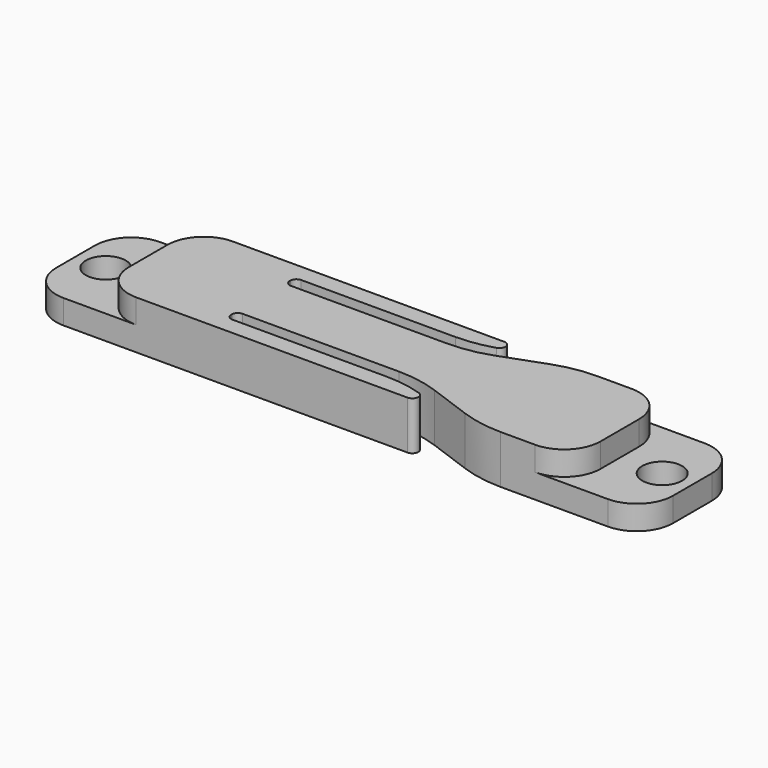
from build123d import *

# Parameters (mm, degrees)
SKETCH_W          = 51
SKETCH_H          = 10
SKETCH_R          = 1.65
PAD_DEPTH         = 2
SKETCH001_W       = 39
SKETCH001_H       = 10
PAD001_DEPTH      = 2
POCKET_DEPTH      = 2.001
POCKET_DEPTH_BACK = -2.001
FILLET_R          = 10
FILLET001_R       = 0.5
FILLET002_R       = 3


with BuildPart() as part:
    # Sketch → Pad (new body)
    with BuildSketch(Plane.XY):
        Rectangle(SKETCH_W, SKETCH_H)
        with Locations((-23, 0)):
            Circle(SKETCH_R, mode=Mode.SUBTRACT)
        with Locations((23, 0)):
            Circle(SKETCH_R, mode=Mode.SUBTRACT)
    extrude(amount=-PAD_DEPTH)

    # Sketch001 → Pad001 (join)
    with BuildSketch(Plane.XY):
        Rectangle(SKETCH001_W, SKETCH001_H)
    extrude(amount=PAD001_DEPTH)

    # Sketch002 → Pocket (cut, two sides)
    with BuildSketch(Plane.XY) as pocket_sk:
        Polygon((-10.185143, 3.55), (4.814857, 3.55), (23.608709, 10.390403), (23.793852, 9.340403), (5, 2.5), (-10.185143, 2.5), align=None)
        Polygon((-10.185143, -2.5), (5, -2.5), (23.793852, -9.340403), (23.608709, -10.390403), (4.814857, -3.55), (-10.185143, -3.55), align=None)
    extrude(amount=-POCKET_DEPTH, mode=Mode.SUBTRACT)
    extrude(pocket_sk.sketch, amount=-POCKET_DEPTH_BACK, mode=Mode.SUBTRACT)

    # Fillet
    fillet_edges = [part.edges().sort_by_distance(p)[0] for p in [
        (4.814857, -3.55, 0),
        (5, -2.5, 0),
        (5, 2.5, 0),
        (4.814857, 3.55, 0),
        (11.868694, -5, -1),
        (11.868694, 5, -1),
    ]]
    fillet(fillet_edges, radius=FILLET_R)

    # Fillet001
    fillet001_edges = [part.edges().sort_by_distance(p)[0] for p in [
        (8.798699, -5, -1),
        (8.798699, 5, -1),
        (-10.185143, -3.55, 0),
        (-10.185143, -2.5, 0),
        (-10.185143, 2.5, 0),
        (-10.185143, 3.55, 0),
    ]]
    fillet(fillet001_edges, radius=FILLET001_R)

    # Fillet002
    fillet002_edges = [part.edges().sort_by_distance(p)[0] for p in [
        (-25.5, -5, -1),
        (-25.5, 5, -1),
        (25.5, 5, -1),
        (25.5, -5, -1),
        (19.5, 5, 1),
        (19.5, -5, 1),
        (-19.5, 5, 1),
        (-19.5, -5, 1),
    ]]
    fillet(fillet002_edges, radius=FILLET002_R)


solid = part.part
